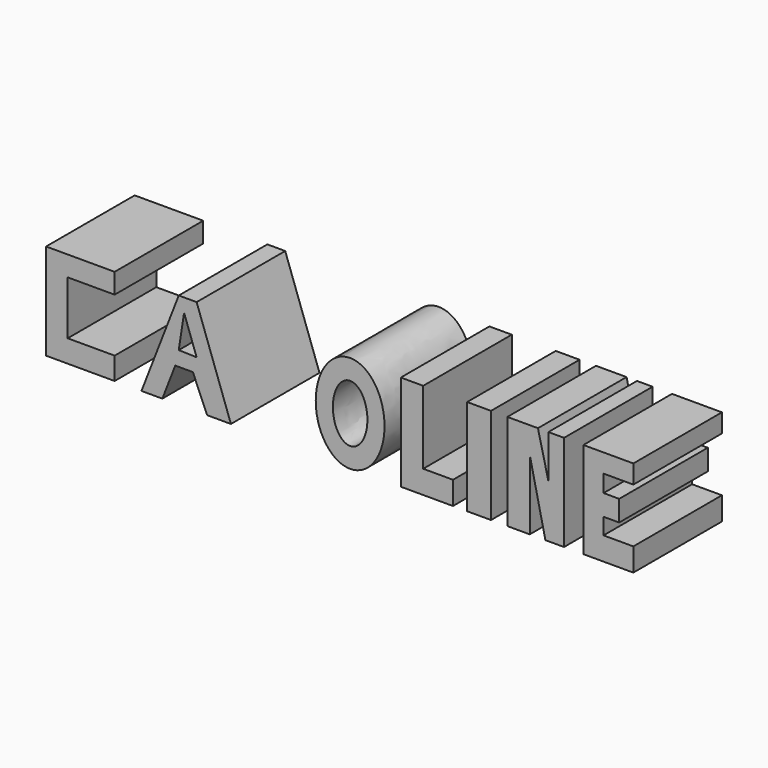
from build123d import *

# Parameters (mm, degrees)
F0_W     = 5.470771
F0_H     = 22.054041
F1_DEPTH = 25.4


with BuildPart() as f1:
    # F0 (on Front) → F1 (new body)
    with BuildSketch(Plane.XZ):
        Polygon((-47.698271, 46.672501), (-47.698271, 51.288463), (-63.426733, 51.288463), (-63.426733, 29.234422), (-47.698271, 29.234422), (-47.698271, 34.36327), (-58.468845, 34.36327), (-58.468845, 46.672501), align=None)
        Polygon((23.079809, 51.288463), (17.950963, 51.288463), (17.950963, 29.234422), (29.918272, 29.234422), (29.918272, 34.534231), (23.079809, 34.534231), align=None)
        with Locations((35.901924, 40.261443)):
            Rectangle(F0_W, F0_H)
        Polygon((49.407884, 51.288463), (42.398464, 51.288463), (42.398464, 29.234422), (47.52731, 29.234422), (47.52731, 45.304805), (51.117502, 29.234422), (55.391539, 29.234422), (55.391539, 51.288463), (51.801346, 51.288463), (51.801346, 41.372694), align=None)
        Polygon((71.290962, 51.288463), (59.83654, 51.288463), (59.83654, 29.234422), (71.290962, 29.234422), (71.290962, 34.534231), (64.452499, 34.534231), (64.452499, 38.295384), (68.042696, 38.295384), (68.042696, 43.082312), (64.452499, 43.082312), (64.452499, 47.014423), (71.290962, 47.014423), align=None)
        with BuildLine():
            add(Edge.make_bspline(
                [(6.325576, 51.45942), (-7.343948, 51.45942), (-0.509186, 34.662454), (6.325576, 17.865487), (13.160339, 34.662454), (19.995101, 51.45942), (6.325576, 51.45942)],
                knots=[0, 0, 0, 2.094395, 2.094395, 4.18879, 4.18879, 6.283185, 6.283185, 6.283185], degree=2, weights=[1, 0.5, 1, 0.5, 1, 0.5, 1]))
        make_face()
        with BuildLine():
            add(Edge.make_bspline(
                [(6.325576, 46.843462), (-0.532054, 46.843462), (2.896761, 36.970433), (6.325576, 27.097405), (9.754392, 36.970433), (13.183207, 46.843462), (6.325576, 46.843462)],
                knots=[0, 0, 0, 2.094395, 2.094395, 4.18879, 4.18879, 6.283185, 6.283185, 6.283185], degree=2, weights=[1, 0.5, 1, 0.5, 1, 0.5, 1]))
        make_face(mode=Mode.SUBTRACT)
        Polygon((-28.8925, 51.288463), (-32.995578, 51.288463), (-41.543655, 29.234422), (-36.756732, 29.234422), (-33.794089, 36.878041), (-29.747307, 36.878041), (-26.499039, 29.234422), (-21.028269, 29.234422), align=None)
        Polygon((-28.8925, 40.139685), (-32.995578, 40.261443), (-31.770698, 48.211154), align=None, mode=Mode.SUBTRACT)
    extrude(amount=F1_DEPTH)


solid = f1.part
